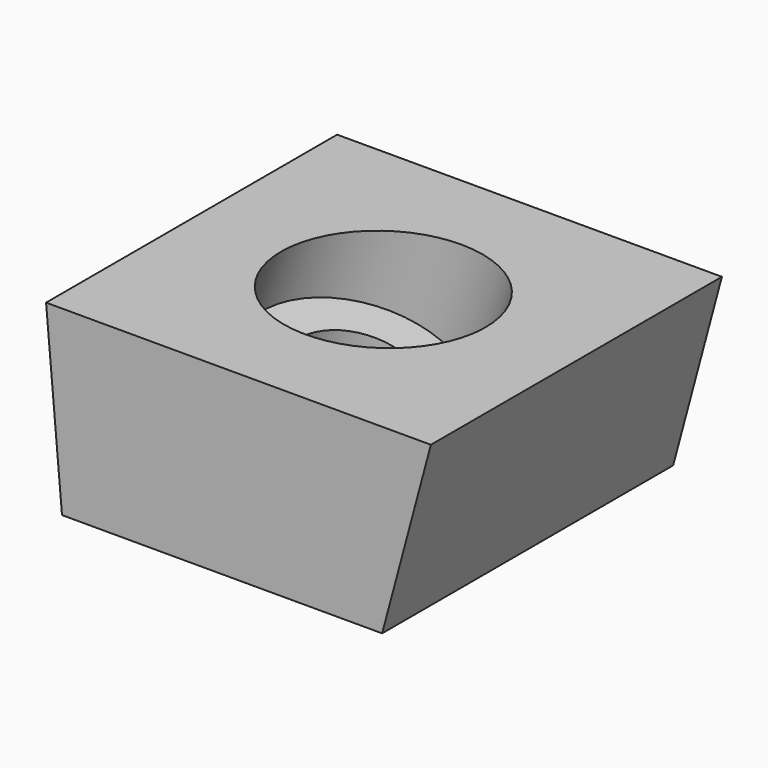
from build123d import *

# Parameters (mm, degrees)
F1_DEPTH      = 7.9375
F1_DEPTH_BACK = 7.9375
F4_R          = 2.55
F5_DEPTH      = 25.4
F5_DEPTH_BACK = 25.4
F6_START      = 1.5875
F4_R_2        = 4.25
F6_DEPTH      = 23.8125


with BuildPart() as f1:
    # F0 (on Front) → F1 (new body, two sides)
    with BuildSketch(Plane.XZ) as f1_sk:
        Polygon((-13.97, 0), (0, 0), (2.1268467149, 7.9375), (-14.6644412667, 7.9375), align=None)
    extrude(amount=F1_DEPTH)
    extrude(f1_sk.sketch, amount=-F1_DEPTH_BACK)

    # F4 (on line) → F5 (cut, two sides)
    with BuildSketch(Plane(origin=(0, 0, 0), x_dir=(0.9518743809, 0, -0.3064884386), z_dir=(0.3064884386, 0, 0.9518743809))) as f5_sk:
        with Locations((-8.4281116724, 0)):
            Circle(F4_R)
    extrude(amount=-F5_DEPTH, mode=Mode.SUBTRACT)
    extrude(f5_sk.sketch, amount=F5_DEPTH_BACK, mode=Mode.SUBTRACT)

    # F4 (on line) → F6 (cut)
    with BuildSketch(Plane(origin=(0, 0, 0), x_dir=(0.9518743809, 0, -0.3064884386), z_dir=(0.3064884386, 0, 0.9518743809)).offset(F6_START)):
        with Locations((-8.4281116724, 0)):
            Circle(F4_R_2)
        with Locations((-8.4281116724, 0)):
            Circle(F4_R, mode=Mode.SUBTRACT)
    extrude(amount=F6_DEPTH, mode=Mode.SUBTRACT)


solid = f1.part
